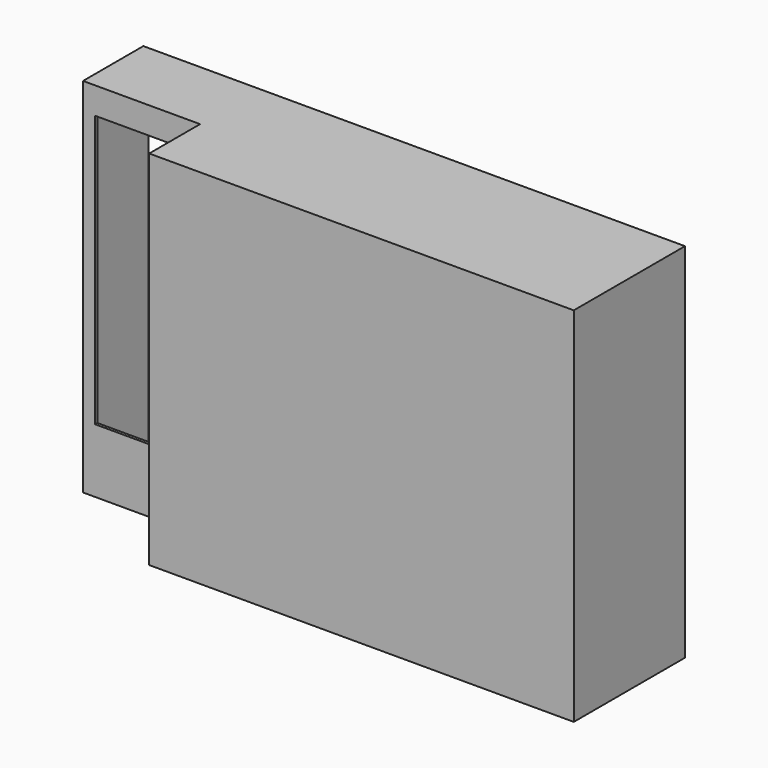
from build123d import *

# Parameters (mm, degrees)
F0_W     = 27.51
F0_H     = 16.75
F0_H_2   = 7
F1_DEPTH = 36.4
F3_DEPTH = 94.9
F4_W     = 139.175252
F4_H     = 90.411716
F4_W_2   = 27.51
F4_H_2   = 71.15
F5_DEPTH = 19
F6_W     = 109.82249
F6_H     = 90.411716
F7_DEPTH = 17


with BuildPart() as f1:
    # F0 (on Front) → F1 (new body)
    with BuildSketch(Plane.XZ):
        Polygon((-40.275, -47.45), (70.925, -47.45), (70.925, 47.45), (-40.275, 47.45), (-40.275, 40.45), (-40.275, -30.7), align=None)
        with Locations((-54.03, -39.075)):
            Rectangle(F0_W, F0_H)
        Polygon((-70.925, -47.45), (-67.785, -47.45), (-67.785, -30.7), (-67.785, 40.45), (-67.785, 47.45), (-70.925, 47.45), align=None)
        with Locations((-54.03, 43.95)):
            Rectangle(F0_W, F0_H_2)
    extrude(amount=F1_DEPTH)

    # F2 (on face) → F3 (cut)
    with BuildSketch(Plane(origin=(0, 0, -47.45), x_dir=(1, 0, 0), z_dir=(0, 0, -1))):
        Polygon((-40.275, 36.4), (-65.575, 36.4), (-70.925, 36.4), (-70.925, 19.75), (-40.275, 19.75), align=None)
    extrude(amount=-F3_DEPTH, mode=Mode.SUBTRACT)

    # F4 (on face) → F5 (cut)
    with BuildSketch(Plane(origin=(0, 0, 0), x_dir=(-1, 0, 0), z_dir=(0, 1, 0))):
        Rectangle(F4_W, F4_H)
        with Locations((54.03, 4.875)):
            Rectangle(F4_W_2, F4_H_2, mode=Mode.SUBTRACT)
        Rectangle(F4_W, F4_H)
        with Locations((54.03, 4.875)):
            Rectangle(F4_W_2, F4_H_2, mode=Mode.SUBTRACT)
    extrude(amount=-F5_DEPTH, mode=Mode.SUBTRACT)

    # F6 (on face) → F7 (cut)
    with BuildSketch(Plane(origin=(0, -19, 0), x_dir=(-1, 0, 0), z_dir=(0, 1, 0))):
        with Locations((-14.676381, 0)):
            Rectangle(F6_W, F6_H)
    extrude(amount=-F7_DEPTH, mode=Mode.SUBTRACT)


solid = f1.part
